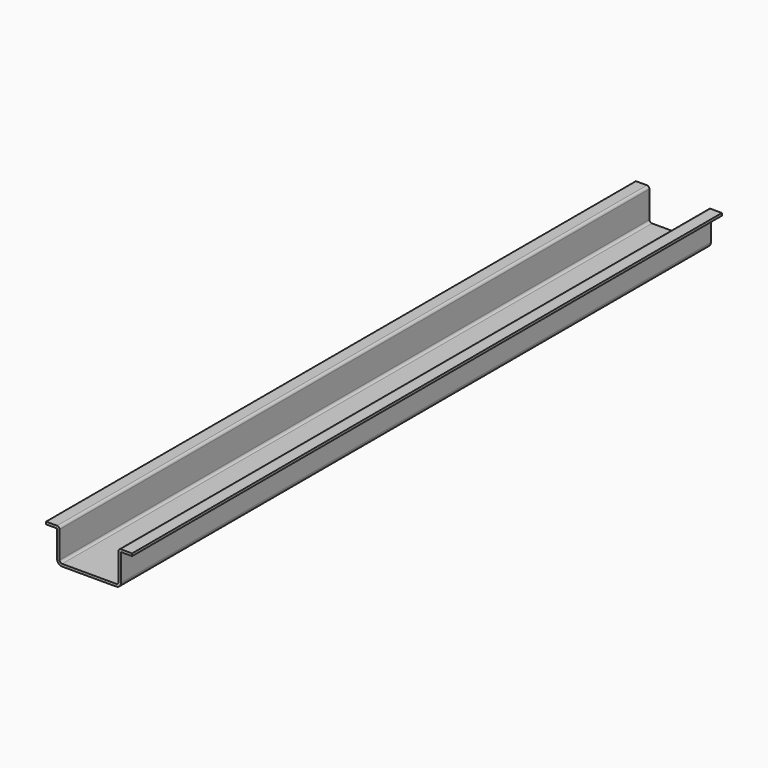
from build123d import *

# Parameters (mm, degrees)
F1_DEPTH = 300


with BuildPart() as f1:
    # F0 (on Front) → F1 (new body)
    with BuildSketch(Plane.XZ):
        with BuildLine():
            Line((4.5, 0), (0, 0))
            Line((0, 0), (0, -1))
            Line((0, -1), (4.5, -1))
            Line((4.5, -1), (4.5, -12))
            ThreePointArc((4.5, -12), (5.085786, -13.414214), (6.5, -14))
            Line((6.5, -14), (28.5, -14))
            ThreePointArc((28.5, -14), (29.914214, -13.414214), (30.5, -12))
            Line((30.5, -12), (30.5, -1))
            Line((30.5, -1), (35, -1))
            Line((35, -1), (35, 0))
            Line((35, 0), (30.5, 0))
            ThreePointArc((30.5, 0), (29.792893, -0.292893), (29.5, -1))
            Line((29.5, -1), (29.5, -12))
            ThreePointArc((29.5, -12), (29.207107, -12.707107), (28.5, -13))
            Line((28.5, -13), (6.5, -13))
            ThreePointArc((6.5, -13), (5.792893, -12.707107), (5.5, -12))
            Line((5.5, -12), (5.5, -1))
            ThreePointArc((5.5, -1), (5.207107, -0.292893), (4.5, 0))
        make_face()
    extrude(amount=F1_DEPTH)


solid = f1.part
